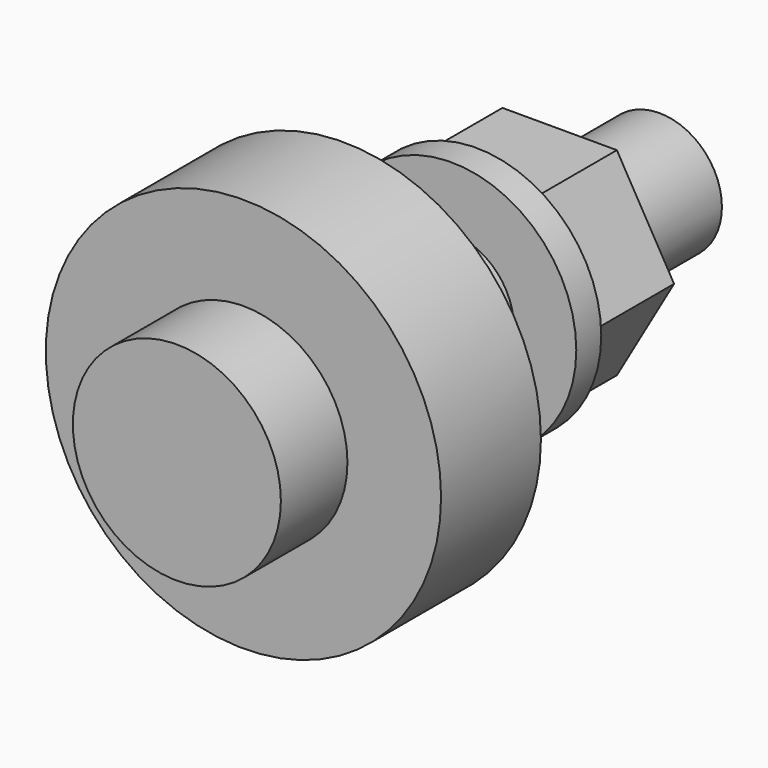
from build123d import *

# Parameters (mm, degrees)
CYLINDER008_R           = 6
CYLINDER008_DEPTH       = 1.5
PRISM001_DEPTH          = 5
FUSION006003_ROLL_ANGLE = -90
CYLINDER006_R           = 3
CYLINDER006_DEPTH       = 25
CYLINDER007_R           = 5
CYLINDER007_DEPTH       = 4
FUSION006002_ROLL_ANGLE = 90
CYLINDER005_R           = 9.5
CYLINDER005_DEPTH       = 6
CYLINDER005_ROLL_ANGLE  = 90
CYLINDER009_R           = 6
CYLINDER009_DEPTH       = 1.5
CYLINDER009_ROLL_ANGLE  = 90


with BuildPart() as cylinder006:
    # Cylinder008 → Cylinder008 (new body)
    with BuildSketch(Plane.XY):
        Circle(CYLINDER008_R)
    extrude(amount=CYLINDER008_DEPTH)


with BuildPart() as fusion006003:
    # Prism001 → Prism001 (new body)
    with BuildSketch(Plane.XY.offset(1.5)):
        Polygon((5.5, 0), (2.75, 4.76314), (-2.75, 4.76314), (-5.5, 0), (-2.75, -4.76314), (2.75, -4.76314), align=None)
    extrude(amount=PRISM001_DEPTH)

    # Fusion006003: union Cylinder006
    add(cylinder006.part)


with BuildPart() as fusion006003_1:
    # Fusion006003 roll: moved
    add(fusion006003.part.rotate(Axis((0, 0, 0), (1, 0, 0)), FUSION006003_ROLL_ANGLE))


with BuildPart() as fusion006003_2:
    # Fusion006003 placement: moved
    add(fusion006003_1.part.moved(Location((0, 10, 14))))


with BuildPart() as cylinder004:
    # Cylinder006 → Cylinder006 (new body)
    with BuildSketch(Plane.XY):
        Circle(CYLINDER006_R)
    extrude(amount=CYLINDER006_DEPTH)


with BuildPart() as belt_bearing_screw:
    # Cylinder007 → Cylinder007 (new body)
    with BuildSketch(Plane.XY.offset(25)):
        Circle(CYLINDER007_R)
    extrude(amount=CYLINDER007_DEPTH)

    # Fusion006002: union Cylinder004
    add(cylinder004.part)


with BuildPart() as belt_bearing_screw_1:
    # Fusion006002 roll: moved
    add(belt_bearing_screw.part.rotate(Axis((0, 0, 0), (1, 0, 0)), FUSION006002_ROLL_ANGLE))


with BuildPart() as belt_bearing_screw_2:
    # Fusion006002 placement: moved
    add(belt_bearing_screw_1.part.moved(Location((0, 22.5, 14))))


with BuildPart() as belt_bearing:
    # Cylinder005 → Cylinder005 (new body)
    with BuildSketch(Plane.XY):
        Circle(CYLINDER005_R)
    extrude(amount=CYLINDER005_DEPTH)


with BuildPart() as belt_bearing_1:
    # Cylinder005 roll: moved
    add(belt_bearing.part.rotate(Axis((0, 0, 0), (1, 0, 0)), CYLINDER005_ROLL_ANGLE))


with BuildPart() as belt_bearing_2:
    # Cylinder005 placement: moved
    add(belt_bearing_1.part.moved(Location((0, 3.5, 14))))


with BuildPart() as belt_holder:
    # Cylinder009 → Cylinder009 (new body)
    with BuildSketch(Plane.XY):
        Circle(CYLINDER009_R)
    extrude(amount=CYLINDER009_DEPTH)


with BuildPart() as belt_holder_1:
    # Cylinder009 roll: moved
    add(belt_holder.part.rotate(Axis((0, 0, 0), (1, 0, 0)), CYLINDER009_ROLL_ANGLE))


with BuildPart() as belt_holder_2:
    # Cylinder009 placement: moved
    add(belt_holder_1.part.moved(Location((0, 5, 14))))

    # Fusion006004: union Fusion006003, Belt_Bearing_Screw, Belt_Bearing
    add(fusion006003_2.part)
    add(belt_bearing_screw_2.part)
    add(belt_bearing_2.part)


solid = belt_holder_2.part
